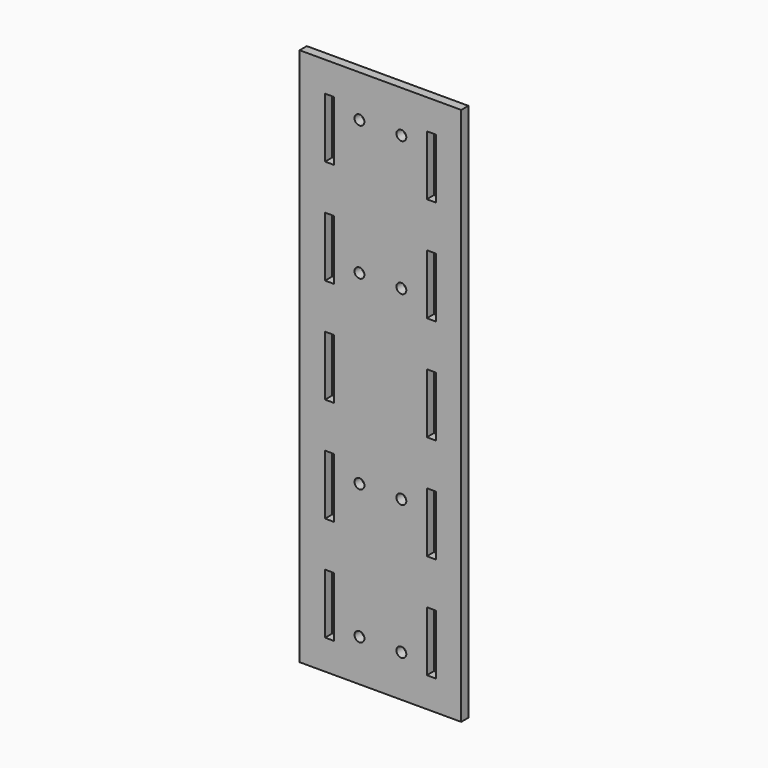
from build123d import *

# Parameters (mm, degrees)
F0_W     = 54
F0_H     = 180
F0_W_2   = 3
F0_H_2   = 20
F0_R     = 1.65
F1_DEPTH = 3


with BuildPart() as f1:
    # F0 (on Front) → F1 (new body)
    with BuildSketch(Plane.XZ):
        Rectangle(F0_W, F0_H)
        with Locations((-17, -70)):
            Rectangle(F0_W_2, F0_H_2, mode=Mode.SUBTRACT)
        with Locations((-7, -76)):
            Circle(F0_R, mode=Mode.SUBTRACT)
        with Locations((-17, -35)):
            Rectangle(F0_W_2, F0_H_2, mode=Mode.SUBTRACT)
        with Locations((-7, -31)):
            Circle(F0_R, mode=Mode.SUBTRACT)
        with Locations((7, -76)):
            Circle(F0_R, mode=Mode.SUBTRACT)
        with Locations((17, -70)):
            Rectangle(F0_W_2, F0_H_2, mode=Mode.SUBTRACT)
        with Locations((7, -31)):
            Circle(F0_R, mode=Mode.SUBTRACT)
        with Locations((17, -35)):
            Rectangle(F0_W_2, F0_H_2, mode=Mode.SUBTRACT)
        with Locations((-17, 0)):
            Rectangle(F0_W_2, F0_H_2, mode=Mode.SUBTRACT)
        with Locations((-17, 35)):
            Rectangle(F0_W_2, F0_H_2, mode=Mode.SUBTRACT)
        with Locations((-7, 31)):
            Circle(F0_R, mode=Mode.SUBTRACT)
        with Locations((-17, 70)):
            Rectangle(F0_W_2, F0_H_2, mode=Mode.SUBTRACT)
        with Locations((-7, 76)):
            Circle(F0_R, mode=Mode.SUBTRACT)
        with Locations((7, 31)):
            Circle(F0_R, mode=Mode.SUBTRACT)
        with Locations((17, 0)):
            Rectangle(F0_W_2, F0_H_2, mode=Mode.SUBTRACT)
        with Locations((17, 35)):
            Rectangle(F0_W_2, F0_H_2, mode=Mode.SUBTRACT)
        with Locations((7, 76)):
            Circle(F0_R, mode=Mode.SUBTRACT)
        with Locations((17, 70)):
            Rectangle(F0_W_2, F0_H_2, mode=Mode.SUBTRACT)
    extrude(amount=F1_DEPTH)


solid = f1.part
